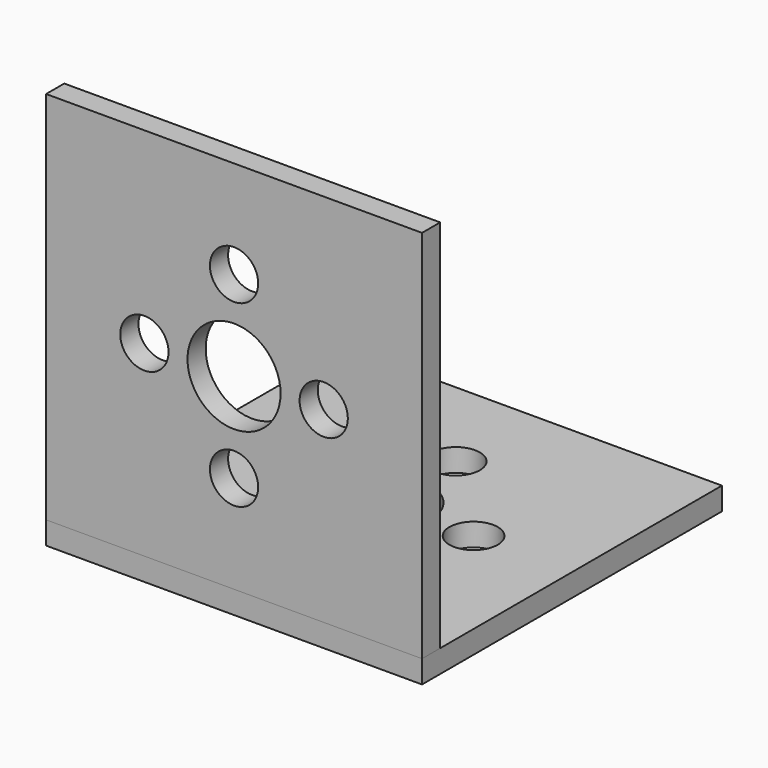
from build123d import *

# Parameters (mm, degrees)
F0_W     = 31.95
F0_H     = 31.86
F0_R     = 2.05
F0_R_2   = 3.955
F1_DEPTH = 1.93
F2_W     = 31.95
F2_H     = 31.86
F2_R     = 2.05
F2_R_2   = 3.955
F3_DEPTH = 1.9304


with BuildPart() as f1:
    # F0 (on Front) → F1 (new body)
    with BuildSketch(Plane.XZ):
        Rectangle(F0_W, F0_H)
        with Locations((0, -7.62)):
            Circle(F0_R, mode=Mode.SUBTRACT)
        with Locations((-7.62, 0)):
            Circle(F0_R, mode=Mode.SUBTRACT)
        Circle(F0_R_2, mode=Mode.SUBTRACT)
        with Locations((7.62, 0)):
            Circle(F0_R, mode=Mode.SUBTRACT)
        with Locations((0, 7.62)):
            Circle(F0_R, mode=Mode.SUBTRACT)
    extrude(amount=F1_DEPTH)


with BuildPart() as f3:
    # F2 (on face) → F3 (new body)
    with BuildSketch(Plane(origin=(0, 0, -15.93), x_dir=(1, 0, 0), z_dir=(0, 0, -1))):
        with Locations((0, -14)):
            Rectangle(F2_W, F2_H)
        with Locations((0, -21.62)):
            Circle(F2_R, mode=Mode.SUBTRACT)
        with Locations((-7.62, -14)):
            Circle(F2_R, mode=Mode.SUBTRACT)
        with Locations((0, -14)):
            Circle(F2_R_2, mode=Mode.SUBTRACT)
        with Locations((7.619994, -13.990517)):
            Circle(F2_R, mode=Mode.SUBTRACT)
        with Locations((0, -6.38)):
            Circle(F2_R, mode=Mode.SUBTRACT)
    extrude(amount=F3_DEPTH)


solid = Compound([f1.part, f3.part])
